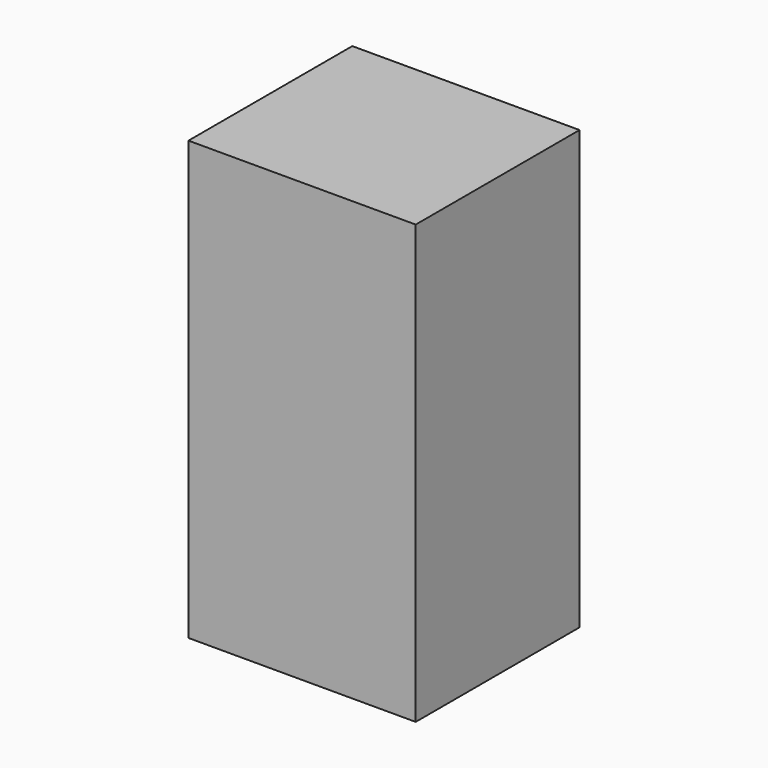
from build123d import *

# Parameters (mm, degrees)
F0_W     = 140.9519910812
F0_H     = 246.1745887995
F1_DEPTH = 127
F3_DEPTH = 25.4


with BuildPart() as f1:
    # F0 (on Front) → F1 (new body)
    with BuildSketch(Plane.XZ):
        with Locations((0, 36.4900156856)):
            Rectangle(F0_W, F0_H)
    extrude(amount=F1_DEPTH)

    # F3 (add): a face of the model
    f3_faces = [f1.faces().sort_by_distance(p)[0] for p in [
        (0, -63.5, 159.5773100853),
    ]]
    extrude(f3_faces, amount=F3_DEPTH)


solid = f1.part
